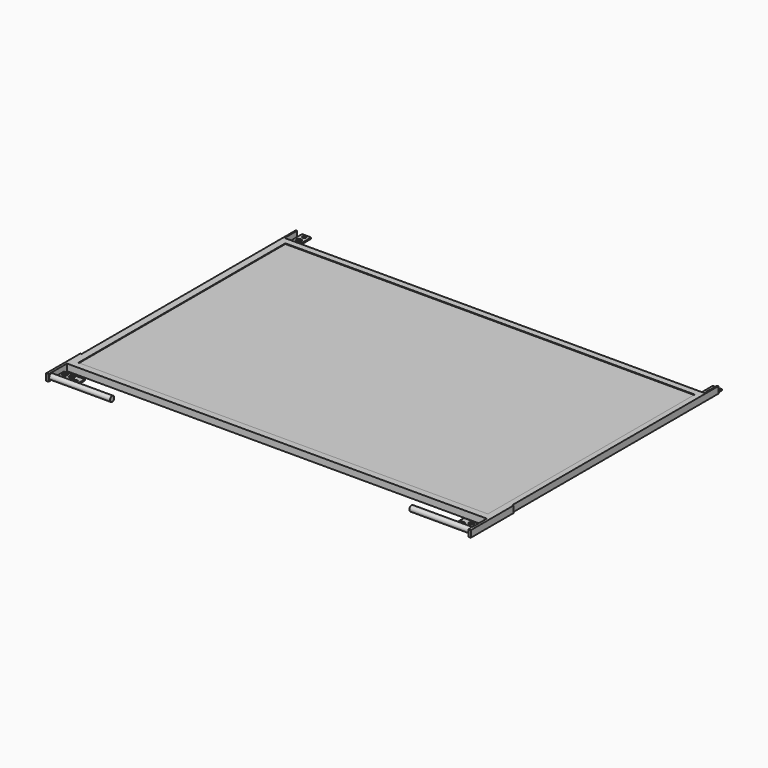
from build123d import *

# Parameters (mm, degrees)
F0_W      = 345
F0_H      = 223.5
F1_DEPTH  = 2.75
F2_W      = 336.5
F2_H      = 212.5
F3_DEPTH  = 0.5
F5_DEPTH  = 1
F7_DEPTH  = 1
F8_R      = 1.5
F8_R_2    = 2
F9_DEPTH  = 1
F10_R     = 1.5
F10_R_2   = 2
F11_DEPTH = 1
F12_W     = 35.267069459
F12_H     = 5.5
F13_DEPTH = 1
F14_W     = 17.2233697499
F14_H     = 8.9206725706
F14_R     = 2
F15_DEPTH = 1
F16_R     = 2.1707267793
F17_DEPTH = 50
F18_W     = 43.8106725812
F18_H     = 5.5
F19_DEPTH = 1
F20_W     = 17.3314685191
F20_H     = 8.8958692735
F20_R     = 2
F21_DEPTH = 1
F22_R     = 2.2669992326
F23_DEPTH = 50


with BuildPart() as f1:
    # F0 (on Top) → F1 (new body, symmetric)
    with BuildSketch(Plane.XY):
        Rectangle(F0_W, F0_H)
    extrude(amount=F1_DEPTH, both=True)

    # F2 (on face) → F3 (cut)
    with BuildSketch(Plane.XY.offset(2.75)):
        with Locations((0.75, 0)):
            Rectangle(F2_W, F2_H)
    extrude(amount=-F3_DEPTH, mode=Mode.SUBTRACT)

    # F4 (on face) → F5 (join)
    with BuildSketch(Plane(origin=(-172.5, 0, 0), x_dir=(0, -1, 0), z_dir=(-1, 0, 0))):
        Polygon((-111.75, 2.75), (-124.75, 2.75), (-124.75, -2.75), (-111.75, -2.75), (111.75, -2.75), (130.75, -2.75), (130.75, 2.75), (111.75, 2.75), align=None)
    extrude(amount=F5_DEPTH)

    # F6 (on face) → F7 (join)
    with BuildSketch(Plane.YZ.offset(172.5)):
        Polygon((124.75, 2.75), (111.75, 2.75), (-111.75, 2.75), (-130.75, 2.75), (-130.75, -2.75), (-111.75, -2.75), (111.75, -2.75), (124.75, -2.75), align=None)
    extrude(amount=F7_DEPTH)

    # F8 (on face) → F9 (join)
    with BuildSketch(Plane(origin=(0, 0, -2.75), x_dir=(1, 0, 0), z_dir=(0, 0, -1))):
        Polygon((-172.5, -117.75), (-172.5, -124.75), (-172.5, -129.75), (-165, -129.75), (-165, -117.75), align=None)
        with Locations((-168.75, -127.25)):
            Circle(F8_R, mode=Mode.SUBTRACT)
        with Locations((-168.75, -121.75)):
            Circle(F8_R_2, mode=Mode.SUBTRACT)
    extrude(amount=-F9_DEPTH)

    # F10 (on face) → F11 (join)
    with BuildSketch(Plane(origin=(0, 0, -2.75), x_dir=(1, 0, 0), z_dir=(0, 0, -1))):
        Polygon((165, -117.75), (165, -129.75), (172.5, -129.75), (172.5, -124.75), (172.5, -117.75), align=None)
        with Locations((168.75, -127.25)):
            Circle(F10_R, mode=Mode.SUBTRACT)
        with Locations((168.75, -121.75)):
            Circle(F10_R_2, mode=Mode.SUBTRACT)
    extrude(amount=-F11_DEPTH)

    # F12 (on face) → F13 (join)
    with BuildSketch(Plane(origin=(-173.5, 0, 0), x_dir=(0, -1, 0), z_dir=(-1, 0, 0))):
        with Locations((113.1164652705, 0)):
            Rectangle(F12_W, F12_H)
    extrude(amount=F13_DEPTH)

    # F14 (on face) → F15 (join)
    with BuildSketch(Plane(origin=(0, 0, -2.75), x_dir=(1, 0, 0), z_dir=(0, 0, -1))):
        with Locations((-163.8883151251, 119.3223506039)):
            Rectangle(F14_W, F14_H)
        with Locations((-169.4210810497, 117.5438189247)):
            Circle(F14_R, mode=Mode.SUBTRACT)
        with Locations((-163.8866538361, 117.5438189247)):
            Circle(F14_R, mode=Mode.SUBTRACT)
        with Locations((-158.6872041225, 121.0242956877)):
            Circle(F14_R, mode=Mode.SUBTRACT)
    extrude(amount=-F15_DEPTH)

    # F16 (on face) → F17 (join)
    with BuildSketch(Plane.YZ.offset(-172.5)):
        with Locations((-127.9121488333, 0)):
            Circle(F16_R)
    extrude(amount=F17_DEPTH)

    # F18 (on face) → F19 (join)
    with BuildSketch(Plane.YZ.offset(173.5)):
        with Locations((-108.8446637094, 0)):
            Rectangle(F18_W, F18_H)
    extrude(amount=F19_DEPTH)

    # F20 (on face) → F21 (join)
    with BuildSketch(Plane(origin=(0, 0, -2.75), x_dir=(1, 0, 0), z_dir=(0, 0, -1))):
        with Locations((163.8342657404, 117.9346791002)):
            Rectangle(F20_W, F20_H)
        with Locations((163.4575277567, 116.1992102861)):
            Circle(F20_R, mode=Mode.SUBTRACT)
        with Locations((158.4874242544, 119.7936609387)):
            Circle(F20_R, mode=Mode.SUBTRACT)
        with Locations((169.3595200777, 116.1992102861)):
            Circle(F20_R, mode=Mode.SUBTRACT)
    extrude(amount=-F21_DEPTH)

    # F22 (on face) → F23 (join)
    with BuildSketch(Plane(origin=(172.5, 0, 0), x_dir=(0, -1, 0), z_dir=(-1, 0, 0))):
        with Locations((126.5941113234, 0)):
            Circle(F22_R)
    extrude(amount=F23_DEPTH)


solid = f1.part
